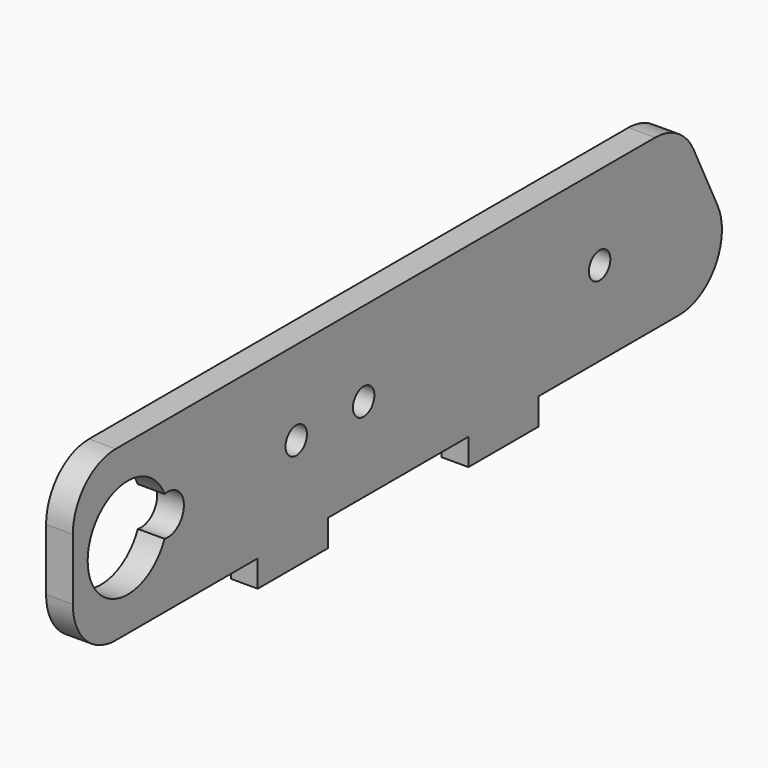
from build123d import *

# Parameters (mm, degrees)
F0_R     = 1.5875
F1_DEPTH = 3.175


with BuildPart() as f1:
    # F0 (on Right) → F1 (new body)
    with BuildSketch(Plane.YZ):
        with BuildLine():
            ThreePointArc((-38.625983, 6.35), (-36.766111, 1.859872), (-32.275983, 0))
            Line((-32.275983, 0), (-32.032519, 0))
            Line((-32.032519, 0), (-11.197744, 0))
            Line((-11.197744, 0), (-11.197744, -3.175))
            Line((-11.197744, -3.175), (-0.780357, -3.175))
            Line((-0.780357, -3.175), (-0.780357, 0))
            Line((-0.780357, 0), (20.054419, 0))
            Line((20.054419, 0), (20.054419, -3.175))
            Line((20.054419, -3.175), (30.471806, -3.175))
            Line((30.471806, -3.175), (30.471806, 0))
            Line((30.471806, 0), (51.306581, 0))
            ThreePointArc((51.306581, 0), (56.690855, 2.983682), (57.015299, 9.130835))
            Line((57.015299, 9.130835), (53.459318, 16.430835))
            ThreePointArc((53.459318, 16.430835), (51.116919, 19.034273), (47.7506, 20))
            Line((47.7506, 20), (-28.720002, 20))
            Line((-28.720002, 20), (-32.275983, 20))
            ThreePointArc((-32.275983, 20), (-36.766111, 18.140128), (-38.625983, 13.65))
            Line((-38.625983, 13.65), (-38.625983, 6.35))
        make_face()
        with BuildLine():
            ThreePointArc((-25.020661, 7.661057), (-36.428301, 10), (-25.020661, 12.338943))
            ThreePointArc((-25.020661, 12.338943), (-22.153501, 10), (-25.020661, 7.661057))
        make_face(mode=Mode.SUBTRACT)
        with Locations((-5.484701, 10)):
            Circle(F0_R, mode=Mode.SUBTRACT)
        with Locations((4.515299, 10)):
            Circle(F0_R, mode=Mode.SUBTRACT)
        with Locations((39.515299, 10)):
            Circle(F0_R, mode=Mode.SUBTRACT)
    extrude(amount=F1_DEPTH)


solid = f1.part
